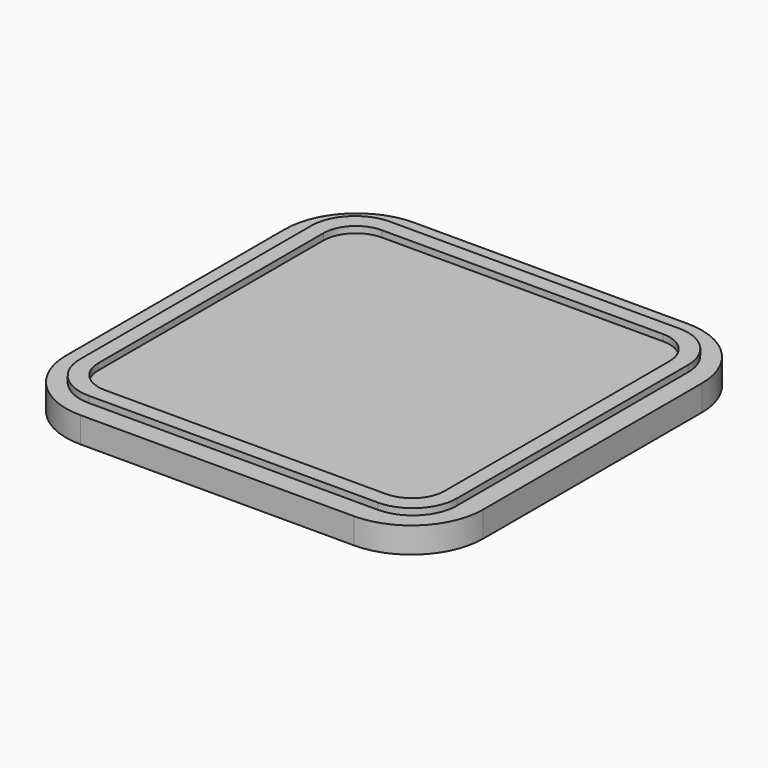
from build123d import *

# Parameters (mm, degrees)
PAD_DEPTH    = 1.6
PAD001_DEPTH = 0.4


with BuildPart() as part:
    # Sketch → Pad (new body)
    with BuildSketch(Plane.XY):
        with BuildLine():
            Line((-8.510103, 12.975), (8.510103, 12.975))
            ThreePointArc((12.975, 8.510103), (11.667262, 11.667262), (8.510103, 12.975))
            Line((12.975, 8.510103), (12.975, -8.510103))
            ThreePointArc((8.510103, -12.975), (11.667262, -11.667262), (12.975, -8.510103))
            Line((8.510103, -12.975), (-8.510103, -12.975))
            ThreePointArc((-12.975, -8.510103), (-11.667262, -11.667262), (-8.510103, -12.975))
            Line((-12.975, -8.510103), (-12.975, 8.510103))
            ThreePointArc((-8.510103, 12.975), (-11.667262, 11.667262), (-12.975, 8.510103))
        make_face()
    extrude(amount=PAD_DEPTH)

    # Sketch001 (on Face10 of Pad) → Pad001 (join)
    with BuildSketch(Plane.XY.offset(1.6)):
        with BuildLine():
            Line((-11.725, 8.992951), (-11.725, -8.99294))
            ThreePointArc((-11.725, -8.99294), (-10.924798, -10.924798), (-8.99294, -11.725))
            Line((-8.99294, -11.725), (8.992951, -11.725))
            ThreePointArc((8.992951, -11.725), (10.924802, -10.924795), (11.725, -8.99294))
            Line((11.725, -8.99294), (11.725, 8.992951))
            ThreePointArc((11.725, 8.992951), (10.924801, 10.924801), (8.992951, 11.725))
            Line((8.992951, 11.725), (-8.99294, 11.725))
            ThreePointArc((-8.99294, 11.725), (-10.924798, 10.924805), (-11.725, 8.992951))
        make_face()
        with BuildLine():
            Line((-8.751524, 10.775), (8.751524, 10.775))
            ThreePointArc((10.775, 8.751524), (10.182338, 10.182338), (8.751524, 10.775))
            Line((10.775, 8.751524), (10.775, -8.751524))
            ThreePointArc((8.751524, -10.775), (10.182338, -10.182338), (10.775, -8.751524))
            Line((8.751524, -10.775), (-8.751524, -10.775))
            ThreePointArc((-10.775, -8.751524), (-10.182338, -10.182338), (-8.751524, -10.775))
            Line((-10.775, -8.751524), (-10.775, 8.751524))
            ThreePointArc((-8.751524, 10.775), (-10.182338, 10.182338), (-10.775, 8.751524))
        make_face(mode=Mode.SUBTRACT)
    extrude(amount=PAD001_DEPTH)


solid = part.part
